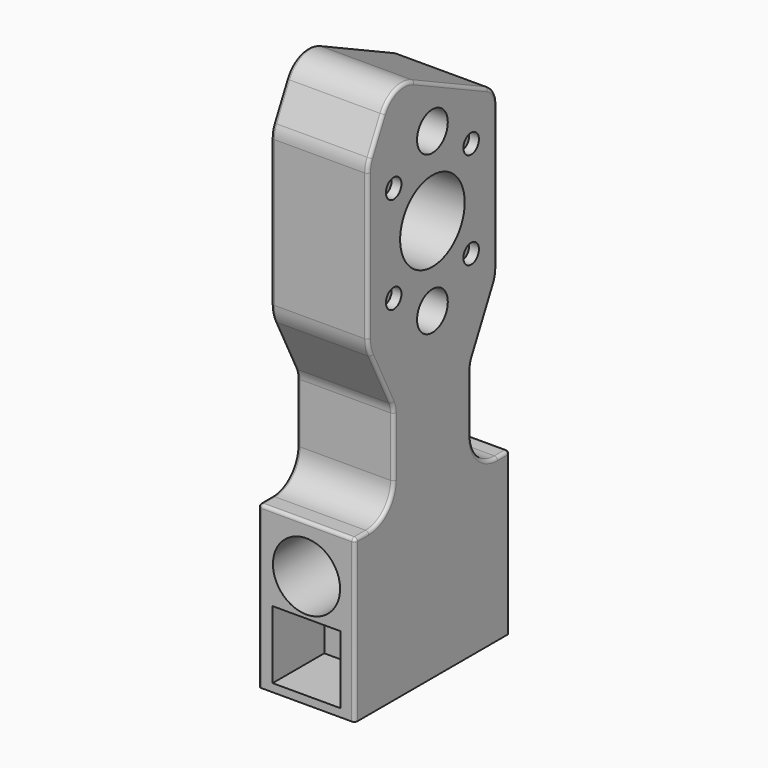
from build123d import *

# Parameters (mm, degrees)
SKETCH_R        = 5.95
SKETCH_R_2      = 12.5
SKETCH_R_3      = 1.5
PAD_DEPTH       = 30
SKETCH001_W     = 42
SKETCH001_H     = 42
POCKET_DEPTH    = 7
SKETCH002_R     = 3
POCKET001_DEPTH = 3
SKETCH003_R     = 10.4
SKETCH003_R_2   = 5
SKETCH003_R_3   = 1.5
POCKET002_DEPTH = 60
SKETCH004_W     = 21
SKETCH004_H     = 21
POCKET003_DEPTH = 20
FILLET_R        = 1


with BuildPart() as part:
    # Sketch → Pad (new body)
    with BuildSketch(Plane.YZ):
        with BuildLine():
            Line((-15, -46.568569), (-15, -64.955837))
            ThreePointArc((-24.667572, -74.62341), (-17.831566, -71.791843), (-15, -64.955837))
            Line((-24.667572, -74.62341), (-30, -74.62341))
            Line((-30, -74.62341), (-30, -124.62341))
            Line((-30, -124.62341), (30, -124.62341))
            Line((30, -124.62341), (30, -74.62341))
            Line((30, -74.62341), (25.245382, -74.62341))
            ThreePointArc((15, -64.378028), (18.000803, -71.622607), (25.245382, -74.62341))
            Line((15, -46.619995), (15, -64.378028))
            ThreePointArc((15.724488, -43.551034), (15.183577, -45.043337), (15, -46.619995))
            Line((24.011209, -26.977709), (15.724488, -43.551034))
            ThreePointArc((24.011209, -26.977709), (24.749504, -24.940849), (25.00007, -22.788851))
            Line((25.00007, 22.051522), (25.00007, -22.788851))
            ThreePointArc((25.00007, 22.051522), (24.055257, 25.311646), (21.513639, 27.561371))
            Line((21.513639, 27.561371), (-6.871688, 41.010422))
            ThreePointArc((-6.871688, 41.010422), (-13.83329, 41.395689), (-19.079268, 36.803082))
            Line((-19.079268, 36.803082), (-24.067049, 26.849336))
            ThreePointArc((-24.067049, 26.849336), (-24.759326, 24.943331), (-24.994291, 22.929158))
            Line((-24.994291, -22.260199), (-24.994291, 22.929158))
            ThreePointArc((-24.994291, -22.260199), (-24.682525, -24.93782), (-23.763909, -27.472183))
            Line((-23.763909, -27.472183), (-15.701485, -43.597029))
            ThreePointArc((-15, -46.568569), (-15.177749, -45.041961), (-15.701485, -43.597029))
        make_face()
        with Locations((0, 24.5)):
            Circle(SKETCH_R, mode=Mode.SUBTRACT)
        with Locations((0, -24.5)):
            Circle(SKETCH_R, mode=Mode.SUBTRACT)
        Circle(SKETCH_R_2, mode=Mode.SUBTRACT)
        with Locations((-15, 15)):
            Circle(SKETCH_R_3, mode=Mode.SUBTRACT)
        with Locations((-15, -15)):
            Circle(SKETCH_R_3, mode=Mode.SUBTRACT)
        with Locations((15, -15)):
            Circle(SKETCH_R_3, mode=Mode.SUBTRACT)
        with Locations((15, 15)):
            Circle(SKETCH_R_3, mode=Mode.SUBTRACT)
    extrude(amount=PAD_DEPTH)

    # Sketch001 (on Face30 of Pad) → Pocket (cut)
    with BuildSketch(Plane(origin=(0, 0, 0), x_dir=(0, 1, 0), z_dir=(-1, 0, 0))):
        Rectangle(SKETCH001_W, SKETCH001_H)
    extrude(amount=-POCKET_DEPTH, mode=Mode.SUBTRACT)

    # Sketch002 (on Face5 of Pocket) → Pocket001 (cut)
    with BuildSketch(Plane.YZ.offset(30)):
        with Locations((-15, 15)):
            Circle(SKETCH002_R)
        with Locations((15, 15)):
            Circle(SKETCH002_R)
        with Locations((-15, -15)):
            Circle(SKETCH002_R)
        with Locations((15, -15)):
            Circle(SKETCH002_R)
    extrude(amount=-POCKET001_DEPTH, mode=Mode.SUBTRACT)

    # Sketch003 (on Face9 of Pocket001) → Pocket002 (cut)
    with BuildSketch(Plane(origin=(0, -30, 0), x_dir=(0, 0, -1), z_dir=(0, -1, 0))):
        with Locations((89.62341, 15)):
            Circle(SKETCH003_R)
        with Locations((111.62341, 15)):
            Circle(SKETCH003_R_2)
        with Locations((111.62341, 22.5)):
            Circle(SKETCH003_R_3)
        with Locations((104.12341, 15)):
            Circle(SKETCH003_R_3)
        with Locations((119.12341, 15)):
            Circle(SKETCH003_R_3)
        with Locations((111.62341, 7.5)):
            Circle(SKETCH003_R_3)
    extrude(amount=-POCKET002_DEPTH, mode=Mode.SUBTRACT)

    # Sketch004 (on Face9 of Pocket002) → Pocket003 (cut)
    with BuildSketch(Plane(origin=(0, -30, 0), x_dir=(0, 0, -1), z_dir=(0, -1, 0))):
        with Locations((111.62341, 15)):
            Rectangle(SKETCH004_W, SKETCH004_H)
    extrude(amount=-POCKET003_DEPTH, mode=Mode.SUBTRACT)

    # Fillet
    fillet_edges = [part.edges().sort_by_distance(p)[0] for p in [
        (0, -30, -99.62341),
        (15, -24.667572, -74.62341),
        (15, -30, -74.62341),
        (0, -27.333786, -74.62341),
        (30, -27.333786, -74.62341),
        (30, -30, -99.62341),
        (15, 30, -74.62341),
        (0, 30, -99.62341),
        (30, 30, -99.62341),
    ]]
    fillet(fillet_edges, radius=FILLET_R)


solid = part.part
